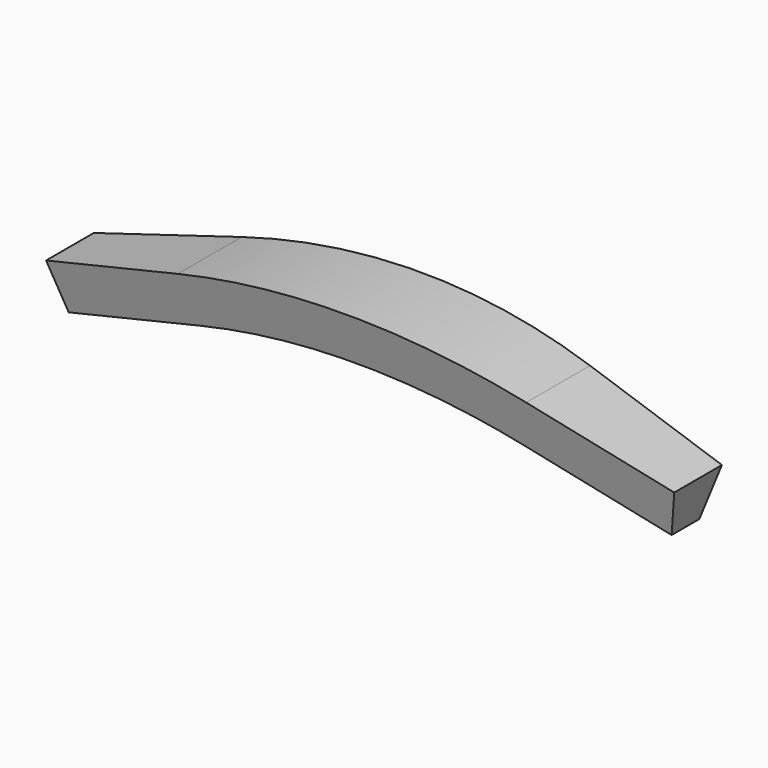
from build123d import *

# Parameters (mm, degrees)
F1_DEPTH = 15
F3_DEPTH = 100
F5_DEPTH = 25


with BuildPart() as f1:
    # F0 (on Front) → F1 (new body, symmetric)
    with BuildSketch(Plane.XZ):
        with BuildLine():
            ThreePointArc((-32.9082667369, 19.25967), (0, 23.6280366002), (32.9082667369, 19.25967))
            Line((32.9082667369, 19.25967), (61.8693159107, 11.43296))
            Line((61.8693159107, 11.43296), (65, 23.01738))
            Line((65, 23.01738), (36.0389508262, 30.84409))
            ThreePointArc((36.0389508262, 30.84409), (0, 35.6280353337), (-36.0389508262, 30.84409))
            Line((-36.0389508262, 30.84409), (-65, 23.01738))
            Line((-65, 23.01738), (-61.8693159107, 11.43296))
            Line((-61.8693159107, 11.43296), (-32.9082667369, 19.25967))
        make_face()
    extrude(amount=F1_DEPTH, both=True)

    # F2 (on Right) → F3 (cut, symmetric)
    with BuildSketch(Plane.YZ):
        Polygon((-1.875644347, 7), (-17, 63.4448637287), (-17, 0), (0, 0), (17, 0), (17, 63.4448637287), (1.875644347, 7), align=None)
    extrude(amount=F3_DEPTH, both=True, mode=Mode.SUBTRACT)

    # F4 (on Front) → F5 (cut, symmetric)
    with BuildSketch(Plane.XZ):
        with BuildLine():
            Line((62.3910966473, 13.3636968704), (33.4300474735, 21.1904068704))
            ThreePointArc((33.4300474735, 21.1904068704), (0, 25.6280366002), (-33.4300474735, 21.1904068704))
            Line((-33.4300474735, 21.1904068704), (-62.3910966473, 13.3636968704))
            Line((-62.3910966473, 13.3636968704), (-61.8693159107, 11.43296))
            Line((-61.8693159107, 11.43296), (-32.9082667369, 19.25967))
            ThreePointArc((-32.9082667369, 19.25967), (0, 23.6280366002), (32.9082667369, 19.25967))
            Line((32.9082667369, 19.25967), (61.8693159107, 11.43296))
            Line((61.8693159107, 11.43296), (62.3910966473, 13.3636968704))
        make_face()
    extrude(amount=F5_DEPTH, both=True, mode=Mode.SUBTRACT)


solid = f1.part
